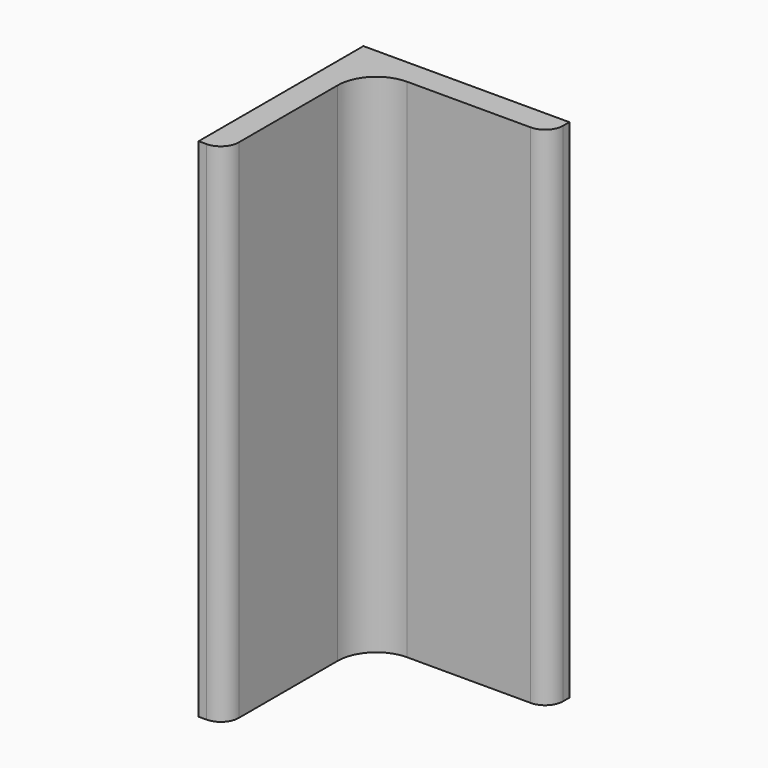
from build123d import *

# Parameters (mm, degrees)
PAD_DEPTH = 250


with BuildPart() as part:
    # Sketch → Pad (new body)
    with BuildSketch(Plane.XY):
        with BuildLine():
            Line((0, 0), (101.6, 0))
            Line((101.6, 0), (101.6, -3.81))
            ThreePointArc((92.71, -12.7), (98.996179, -10.096179), (101.6, -3.81))
            Line((92.71, -12.7), (31.75, -12.7))
            ThreePointArc((31.75, -12.7), (18.279616, -18.279616), (12.7, -31.75))
            Line((12.7, -31.75), (12.7, -92.71))
            ThreePointArc((3.81, -101.6), (10.096179, -98.996179), (12.7, -92.71))
            Line((3.81, -101.6), (0, -101.6))
            Line((0, -101.6), (0, 0))
        make_face()
    extrude(amount=PAD_DEPTH)


solid = part.part
